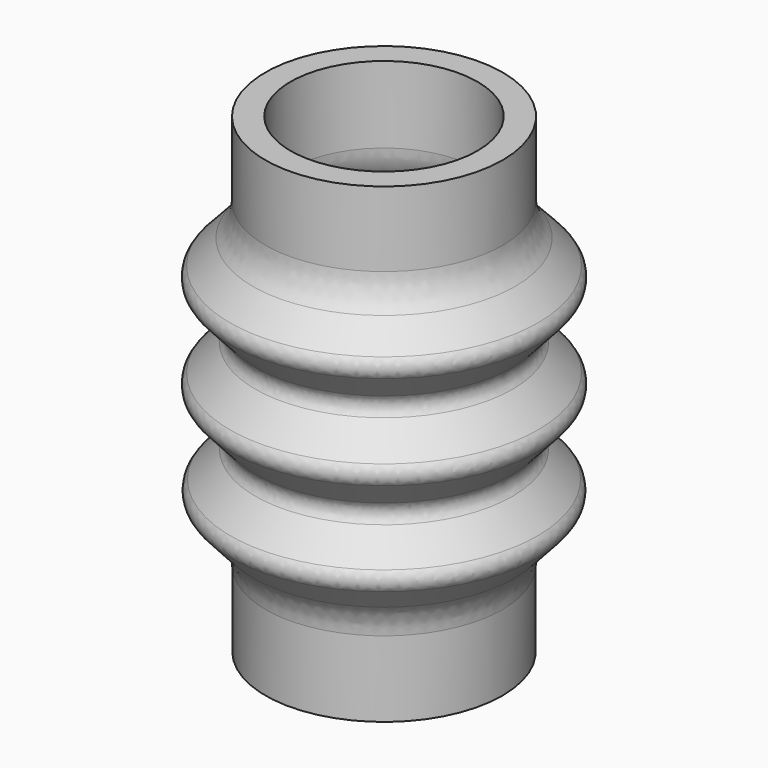
from build123d import *

# Parameters (mm, degrees)
FILLET_R    = 3
FILLET001_R = 10


with BuildPart() as part:
    # Sketch → Revolution (revolve)
    with BuildSketch(Plane.XZ):
        with BuildLine():
            Line((25.119613, 0), (25.119613, 19.889167))
            Line((25.119613, 19.889167), (34.411403, 30.239691))
            Line((34.411403, 30.239691), (25.422755, 39.92873))
            Line((25.422755, 39.92873), (34.548701, 50.094514))
            Line((34.548701, 50.094514), (25.432553, 59.920987))
            Line((25.432553, 59.920987), (34.551775, 70.07928))
            Line((34.551775, 70.07928), (25.183644, 80.177371))
            Line((25.183644, 80.177371), (25.183644, 100))
            Line((25.183644, 100), (19.835437, 100))
            Line((19.835437, 100), (19.835437, 79.832397))
            Line((19.835437, 79.832397), (27.254664, 71.835067))
            ThreePointArc((27.287763, 67.790657), (28.055242, 69.819279), (27.254664, 71.835067))
            Line((27.287763, 67.790657), (20.217533, 59.914824))
            Line((20.217533, 59.914824), (27.432556, 52.137609))
            ThreePointArc((27.465655, 48.093199), (28.233134, 50.121821), (27.432556, 52.137609))
            Line((27.465655, 48.093199), (20.109193, 39.89852))
            Line((20.109193, 39.89852), (27.270046, 32.179697))
            ThreePointArc((27.303145, 28.135287), (28.070624, 30.163909), (27.270046, 32.179697))
            Line((27.303145, 28.135287), (20, 20))
            Line((20, 20), (20, 0))
            Line((20, 0), (25.119613, 0))
        make_face()
    revolve(axis=Axis((0, 0, 0), (0, 0, 1)))

    # Fillet
    fillet_edges = [part.edges().sort_by_distance(p)[0] for p in [
        (-34.551775, 0, 70.07928),
        (-25.432553, 0, 59.920987),
        (-34.548701, 0, 50.094514),
        (-25.422755, 0, 39.92873),
        (-34.411403, 0, 30.239691),
        (-20.217533, 0, 59.914824),
        (-20.109193, 0, 39.89852),
    ]]
    fillet(fillet_edges, radius=FILLET_R)

    # Fillet001
    fillet001_edges = [part.edges().sort_by_distance(p)[0] for p in [
        (-25.119613, 0, 19.889167),
        (-25.183644, 0, 80.177371),
        (-19.835437, 0, 79.832397),
        (-20, 0, 20),
    ]]
    fillet(fillet001_edges, radius=FILLET001_R)


solid = part.part
